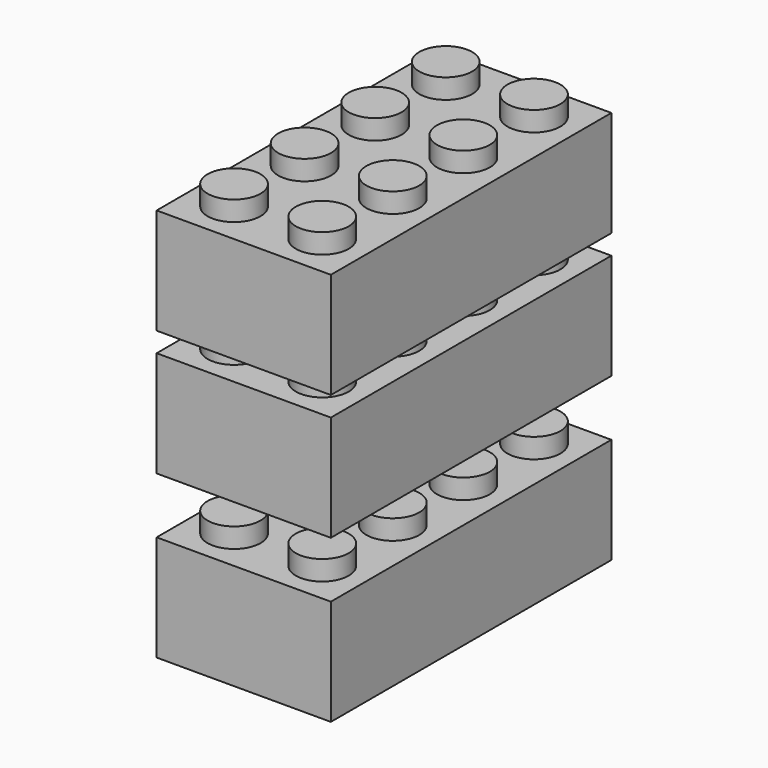
from build123d import *

# Parameters (mm, degrees)
F0_W     = 401.32
F0_H     = 807.72
F1_DEPTH = 243.84
F2_R     = 60.96
F3_DEPTH = 45.72
F4_W     = 340.36
F4_H     = 746.76
F5_DEPTH = 213.36
F6_R     = 82.55
F6_R_2   = 60.96
F7_DEPTH = 213.36


with BuildPart() as f1:
    # F0 (on Top) → F1 (new body)
    with BuildSketch(Plane.XY):
        with Locations((-38.328369, -0.47313)):
            Rectangle(F0_W, F0_H)
    extrude(amount=F1_DEPTH)

    # F2 (on face) → F3 (join)
    with BuildSketch(Plane.XY.offset(243.84)):
        with Locations((-139.928369, -305.27313)):
            Circle(F2_R)
        with Locations((-139.928369, -102.07313)):
            Circle(F2_R)
        with Locations((-139.928369, 101.12687)):
            Circle(F2_R)
        with Locations((-139.928369, 304.32687)):
            Circle(F2_R)
        with Locations((63.271631, 304.32687)):
            Circle(F2_R)
        with Locations((63.271631, 101.12687)):
            Circle(F2_R)
        with Locations((63.271631, -102.07313)):
            Circle(F2_R)
        with Locations((63.271631, -305.27313)):
            Circle(F2_R)
    extrude(amount=F3_DEPTH)

    # F4 (on face) → F5 (cut)
    with BuildSketch(Plane(origin=(0, 0, 0), x_dir=(1, 0, 0), z_dir=(0, 0, -1))):
        with Locations((-38.328369, 0.47313)):
            Rectangle(F4_W, F4_H)
    extrude(amount=-F5_DEPTH, mode=Mode.SUBTRACT)

    # F6 (on face) → F7 (join)
    with BuildSketch(Plane(origin=(0, 0, 213.36), x_dir=(1, 0, 0), z_dir=(0, 0, -1))):
        with Locations((-38.328369, 203.67313)):
            Circle(F6_R)
        with Locations((-38.328369, 203.67313)):
            Circle(F6_R_2, mode=Mode.SUBTRACT)
        with Locations((-38.328369, 0.47313)):
            Circle(F6_R)
        with Locations((-38.328369, 0.47313)):
            Circle(F6_R_2, mode=Mode.SUBTRACT)
        with Locations((-38.328369, -202.72687)):
            Circle(F6_R)
        with Locations((-38.328369, -202.72687)):
            Circle(F6_R_2, mode=Mode.SUBTRACT)
    extrude(amount=F7_DEPTH)


with BuildPart() as f8_1:
    # F8: copy of F1
    add(f1.part.moved(Location((0, 0, 373.38))))


with BuildPart() as f9_1:
    # F9: copy of F8_1
    add(f8_1.part.moved(Location((0, 0, 289.56))))


with BuildPart() as f10_1:
    # F10: copy of F1
    add(f1.part)


with BuildPart() as f11_1:
    # F11: copy of F10_1
    add(f10_1.part)


solid = Compound([f1.part, f8_1.part, f9_1.part, f10_1.part, f11_1.part])
